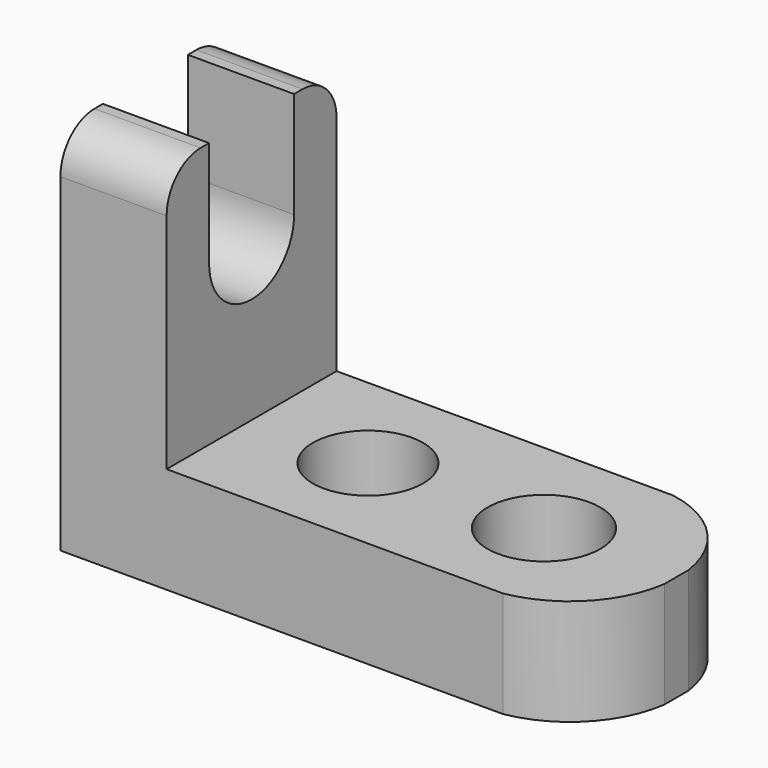
from build123d import *

# Parameters (mm, degrees)
F1_DEPTH = 25.4
F3_DEPTH = 25.4
F4_R     = 6.591123
F4_R_2   = 6.739643
F5_DEPTH = 25.4
F7_DEPTH = 25.4
F8_R     = 5.08
F9_R     = 5.08


with BuildPart() as f1:
    # F0 (on Front) → F1 (new body)
    with BuildSketch(Plane.XZ):
        Polygon((12.7, 44.45), (0, 44.45), (0, 0), (63.5, 0), (63.5, 12.7), (12.7, 12.7), align=None)
    extrude(amount=F1_DEPTH)

    # F2 (on face) → F3 (cut)
    with BuildSketch(Plane.XY.offset(12.7)):
        with BuildLine():
            ThreePointArc((63.5, -14.510555), (59.986844, -21.676886), (52.927312, -25.4))
            Line((52.927312, -25.4), (63.5, -25.4))
            Line((63.5, -25.4), (63.5, -14.510555))
        make_face()
        with BuildLine():
            ThreePointArc((52.927312, 0), (59.986844, -3.723114), (63.5, -10.889445))
            Line((63.5, -10.889445), (63.5, 0))
            Line((63.5, 0), (52.927312, 0))
        make_face()
    extrude(amount=-F3_DEPTH, mode=Mode.SUBTRACT)

    # F4 (on face) → F5 (cut)
    with BuildSketch(Plane.XY.offset(12.7)):
        with Locations((26.618414, -12.7)):
            Circle(F4_R)
        with Locations((47.665533, -12.7)):
            Circle(F4_R_2)
    extrude(amount=-F5_DEPTH, mode=Mode.SUBTRACT)

    # F6 (on face) → F7 (cut)
    with BuildSketch(Plane.YZ.offset(12.7)):
        with BuildLine():
            ThreePointArc((-19.05, 31.75), (-12.7, 25.4), (-6.35, 31.75))
            Line((-6.35, 31.75), (-6.35, 44.45))
            Line((-6.35, 44.45), (-19.05, 44.45))
            Line((-19.05, 44.45), (-19.05, 31.75))
        make_face()
    extrude(amount=-F7_DEPTH, mode=Mode.SUBTRACT)

    # F8
    f8_edges = [f1.edges().sort_by_distance(p)[0] for p in [
        (6.35, -25.4, 44.45),
    ]]
    fillet(f8_edges, radius=F8_R)

    # F9
    f9_edges = [f1.edges().sort_by_distance(p)[0] for p in [
        (6.35, 0, 44.45),
    ]]
    fillet(f9_edges, radius=F9_R)


solid = f1.part
